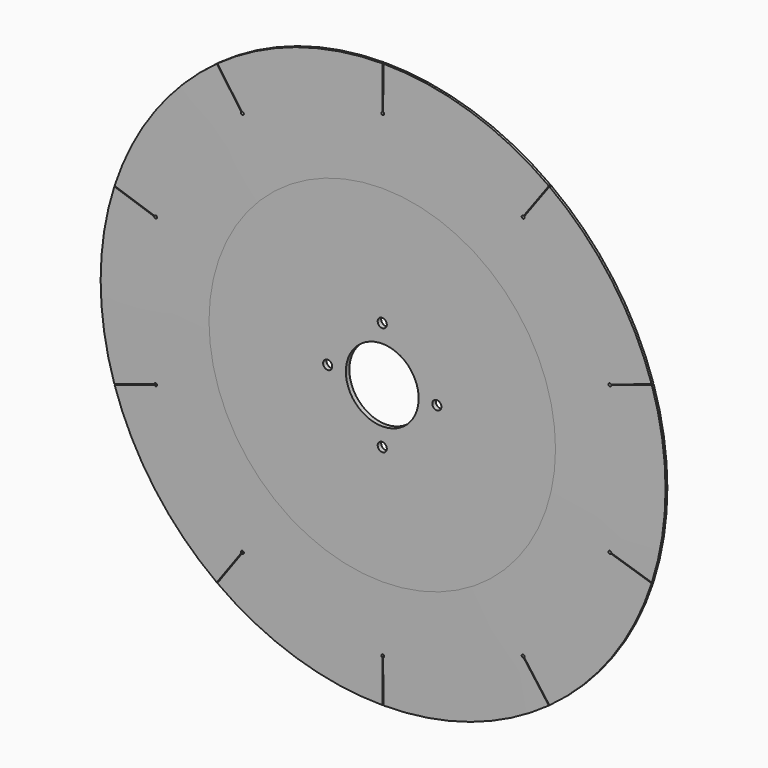
from build123d import *

# Parameters (mm, degrees)
F0_R       = 388
F1_DEPTH   = 6
F2_R       = 50
F3_DEPTH   = 6.001
F4_SIZE2   = 1.4530320485
F4_SIZE    = 150
F4_2_SIZE2 = 1.4530320485
F4_2_SIZE  = 150
F6_D       = 12.5
F8_DEPTH   = 6.001


with BuildPart() as f1:
    # F0 (on Front) → F1 (new body)
    with BuildSketch(Plane.XZ):
        Circle(F0_R)
    extrude(amount=-F1_DEPTH)

    # F2 (on face) → F3 (cut, through all)
    with BuildSketch(Plane(origin=(0, 6, 0), x_dir=(-1, 0, 0), z_dir=(0, 1, 0))):
        Circle(F2_R)
    extrude(amount=-F3_DEPTH, mode=Mode.SUBTRACT)

    # F4
    f4_edges = [f1.edges().sort_by_distance(p)[0] for p in [
        (-388, 0, 0),
    ]]
    f4_side = f1.faces().sort_by_distance((-377.025703, 0, 0))[0]
    chamfer(f4_edges, length=F4_SIZE, length2=F4_SIZE2, reference=f4_side)

    # F4#2
    f4_2_edges = [f1.edges().sort_by_distance(p)[0] for p in [
        (-388, 6, 0),
    ]]
    f4_2_side = f1.faces().sort_by_distance((-377.025703, 6, 0))[0]
    chamfer(f4_2_edges, length=F4_2_SIZE, length2=F4_2_SIZE2, reference=f4_2_side)

    # F6 (through all)
    with Locations(Plane.XZ):
        with Locations((0, 75), (75, 0), (0, -75), (-75, 0)):
            Hole(F6_D / 2)

    # F7 (on face) → F8 (cut, through all)
    with BuildSketch(Plane.XZ):
        with BuildLine():
            Line((0.5, 417.4711613655), (0, 417.4711613655))
            Line((0, 417.4711613655), (-0.5, 417.4711613655))
            Line((-0.5, 417.4711613655), (-0.5, 329.9364916731))
            ThreePointArc((-0.5, 329.9364916731), (0, 326), (0.5, 329.9364916731))
            Line((0.5, 329.9364916731), (0.5, 417.4711613655))
        make_face()
        with BuildLine():
            ThreePointArc((-194.3363124958, 266.6303362018), (-191.6179922473, 263.7395401662), (-193.5272955014, 267.2181214541))
            Line((-193.5272955014, 267.2181214541), (-244.9788834109, 338.0351568323))
            Line((-244.9788834109, 338.0351568323), (-245.3833919081, 337.7412642061))
            Line((-245.3833919081, 337.7412642061), (-245.7879004052, 337.44737158))
            Line((-245.7879004052, 337.44737158), (-194.3363124958, 266.6303362018))
        make_face()
        with BuildLine():
            ThreePointArc((-313.9427588665, 101.4804547333), (-310.0444243122, 100.7395401662), (-313.6337418721, 102.4315112496))
            Line((-313.6337418721, 102.4315112496), (-396.8841598848, 129.4812117815))
            Line((-396.8841598848, 129.4812117815), (-397.038668382, 129.0056835234))
            Line((-397.038668382, 129.0056835234), (-397.1931768792, 128.5301552652))
            Line((-397.1931768792, 128.5301552652), (-313.9427588665, 101.4804547333))
        make_face()
        with BuildLine():
            ThreePointArc((-313.6337418721, -102.4315112496), (-310.0444243122, -100.7395401662), (-313.9427588665, -101.4804547333))
            Line((-313.9427588665, -101.4804547333), (-397.1931768792, -128.5301552652))
            Line((-397.1931768792, -128.5301552652), (-397.038668382, -129.0056835234))
            Line((-397.038668382, -129.0056835234), (-396.8841598848, -129.4812117815))
            Line((-396.8841598848, -129.4812117815), (-313.6337418721, -102.4315112496))
        make_face()
        with BuildLine():
            ThreePointArc((-193.5272955014, -267.2181214541), (-191.6179922473, -263.7395401662), (-194.3363124958, -266.6303362018))
            Line((-194.3363124958, -266.6303362018), (-245.7879004052, -337.44737158))
            Line((-245.7879004052, -337.44737158), (-245.3833919081, -337.7412642061))
            Line((-245.3833919081, -337.7412642061), (-244.9788834109, -338.0351568323))
            Line((-244.9788834109, -338.0351568323), (-193.5272955014, -267.2181214541))
        make_face()
        with BuildLine():
            ThreePointArc((0.5, -329.9364916731), (0, -326), (-0.5, -329.9364916731))
            Line((-0.5, -329.9364916731), (-0.5, -417.4711613655))
            Line((-0.5, -417.4711613655), (0, -417.4711613655))
            Line((0, -417.4711613655), (0.5, -417.4711613655))
            Line((0.5, -417.4711613655), (0.5, -329.9364916731))
        make_face()
        with BuildLine():
            ThreePointArc((194.3363124958, -266.6303362018), (191.6179922473, -263.7395401662), (193.5272955014, -267.2181214541))
            Line((193.5272955014, -267.2181214541), (244.9788834109, -338.0351568323))
            Line((244.9788834109, -338.0351568323), (245.3833919081, -337.7412642061))
            Line((245.3833919081, -337.7412642061), (245.7879004052, -337.44737158))
            Line((245.7879004052, -337.44737158), (194.3363124958, -266.6303362018))
        make_face()
        with BuildLine():
            ThreePointArc((313.9427588665, -101.4804547333), (310.0444243122, -100.7395401662), (313.6337418721, -102.4315112496))
            Line((313.6337418721, -102.4315112496), (396.8841598848, -129.4812117815))
            Line((396.8841598848, -129.4812117815), (397.038668382, -129.0056835234))
            Line((397.038668382, -129.0056835234), (397.1931768792, -128.5301552652))
            Line((397.1931768792, -128.5301552652), (313.9427588665, -101.4804547333))
        make_face()
        with BuildLine():
            ThreePointArc((313.6337418721, 102.4315112496), (310.0444243122, 100.7395401662), (313.9427588665, 101.4804547333))
            Line((313.9427588665, 101.4804547333), (397.1931768792, 128.5301552652))
            Line((397.1931768792, 128.5301552652), (397.038668382, 129.0056835234))
            Line((397.038668382, 129.0056835234), (396.8841598848, 129.4812117815))
            Line((396.8841598848, 129.4812117815), (313.6337418721, 102.4315112496))
        make_face()
        with BuildLine():
            ThreePointArc((193.5272955014, 267.2181214541), (191.6179922473, 263.7395401662), (194.3363124958, 266.6303362018))
            Line((194.3363124958, 266.6303362018), (245.7879004052, 337.44737158))
            Line((245.7879004052, 337.44737158), (245.3833919081, 337.7412642061))
            Line((245.3833919081, 337.7412642061), (244.9788834109, 338.0351568323))
            Line((244.9788834109, 338.0351568323), (193.5272955014, 267.2181214541))
        make_face()
    extrude(amount=-F8_DEPTH, mode=Mode.SUBTRACT)


solid = f1.part
